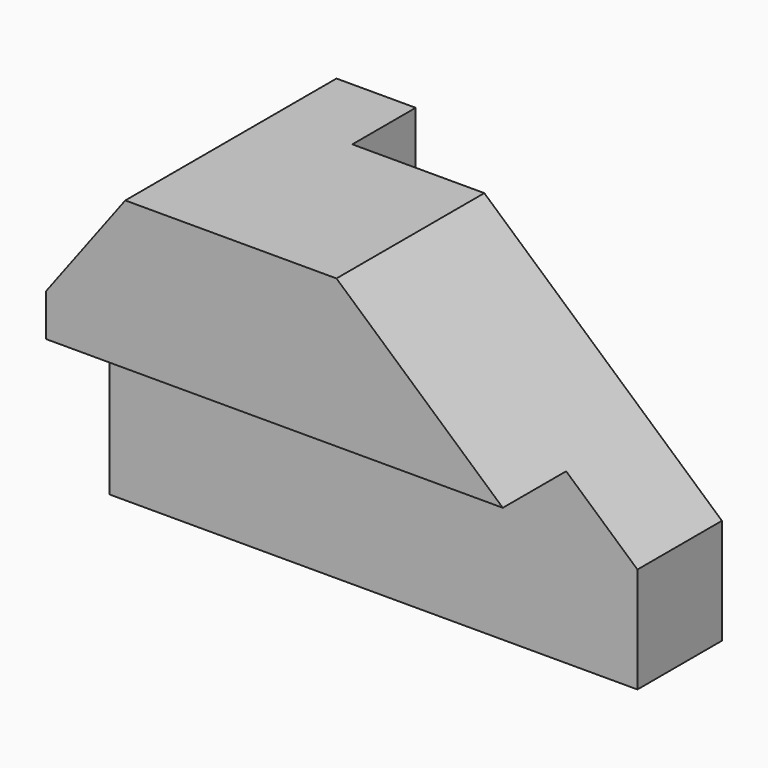
from build123d import *

# Parameters (mm, degrees)
F0_W      = 100
F0_H      = 60
F1_DEPTH  = 50
F2_W      = 70
F2_H      = 15
F3_DEPTH  = 60
F4_W      = 15
F4_H      = 32
F5_DEPTH  = 100
F7_DEPTH  = 50
F9_DEPTH  = 35
F11_DEPTH = 20


with BuildPart() as f1:
    # F0 (on Front) → F1 (new body)
    with BuildSketch(Plane.XZ):
        with Locations((50, 30)):
            Rectangle(F0_W, F0_H)
    extrude(amount=-F1_DEPTH)

    # F2 (on face) → F3 (cut, through all)
    with BuildSketch(Plane.XY.offset(60)):
        with Locations((65, 42.5)):
            Rectangle(F2_W, F2_H)
    extrude(amount=-F3_DEPTH, mode=Mode.SUBTRACT)

    # F4 (on face) → F5 (cut, through all)
    with BuildSketch(Plane.YZ.offset(100)):
        with Locations((7.5, 16)):
            Rectangle(F4_W, F4_H)
    extrude(amount=-F5_DEPTH, mode=Mode.SUBTRACT)

    # F6 (on face) → F7 (cut, through all)
    with BuildSketch(Plane.XZ):
        Polygon((0, 40), (15, 60), (0, 60), align=None)
    extrude(amount=-F7_DEPTH, mode=Mode.SUBTRACT)

    # F8 (on face) → F9 (cut, through all)
    with BuildSketch(Plane.XZ):
        Polygon((100, 60), (55, 60), (86.5, 32), (100, 32), align=None)
    extrude(amount=-F9_DEPTH, mode=Mode.SUBTRACT)

    # F10 (on face) → F11 (cut, through all)
    with BuildSketch(Plane.XZ.offset(-15)):
        Polygon((100, 32), (86.5, 32), (100, 20), align=None)
    extrude(amount=-F11_DEPTH, mode=Mode.SUBTRACT)


solid = f1.part
